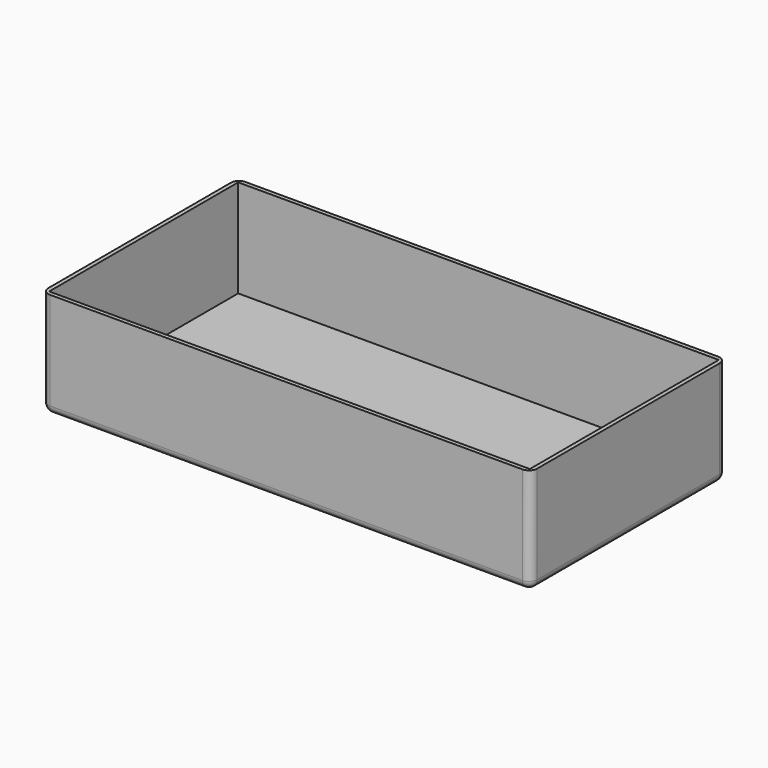
from build123d import *

# Parameters (mm, degrees)
F0_W     = 60
F0_H     = 30
F0_W_2   = 59
F0_H_2   = 29
F1_DEPTH = 13
F2_DEPTH = 12
F3_R     = 1


with BuildPart() as f1:
    # F0 (on Top) → F1 (new body)
    with BuildSketch(Plane.XY):
        Rectangle(F0_W, F0_H)
        Rectangle(F0_W_2, F0_H_2, mode=Mode.SUBTRACT)
        Rectangle(F0_W_2, F0_H_2)
    extrude(amount=-F1_DEPTH)

    # F0 (on Top) → F2 (cut)
    with BuildSketch(Plane.XY):
        Rectangle(F0_W_2, F0_H_2)
    extrude(amount=-F2_DEPTH, mode=Mode.SUBTRACT)

    # F3
    f3_edges = [f1.edges().sort_by_distance(p)[0] for p in [
        (-30, 0, -13),
        (-30, 15, -6.5),
        (0, 15, -13),
        (30, 15, -6.5),
        (30, 0, -13),
        (0, -15, -13),
        (30, -15, -6.5),
        (-30, -15, -6.5),
    ]]
    fillet(f3_edges, radius=F3_R)


solid = f1.part
